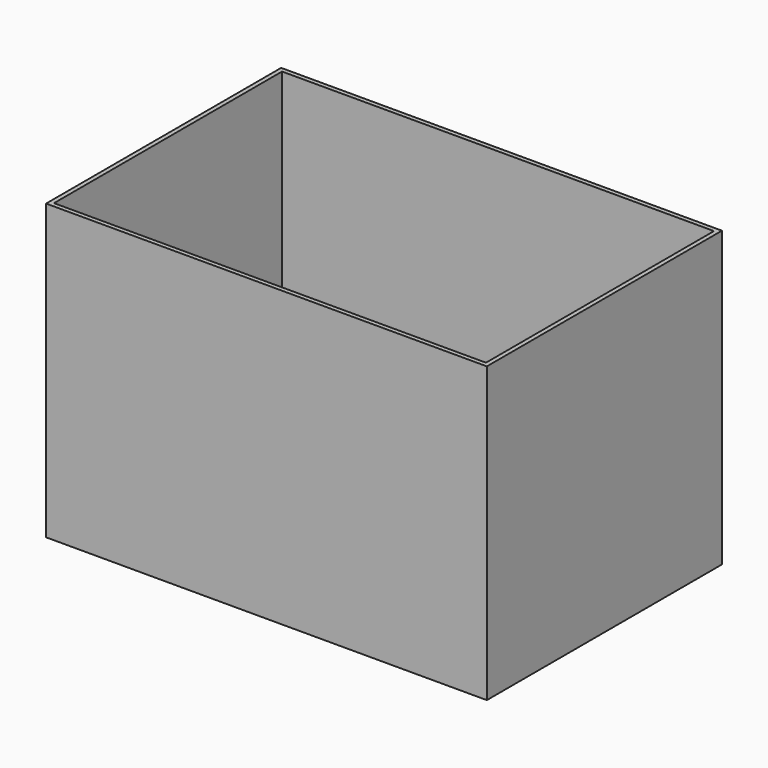
from build123d import *

# Parameters (mm, degrees)
F0_W     = 150
F0_H     = 100
F1_DEPTH = 50
F2_T     = -1.5


with BuildPart() as f1:
    # F0 (on Front) → F1 (new body, symmetric)
    with BuildSketch(Plane.XZ):
        Rectangle(F0_W, F0_H)
    extrude(amount=F1_DEPTH, both=True)

    # F2
    f2_openings = [f1.faces().sort_by_distance(p)[0] for p in [
        (0, 0, 50),
    ]]
    offset(amount=F2_T, openings=f2_openings)


solid = f1.part
